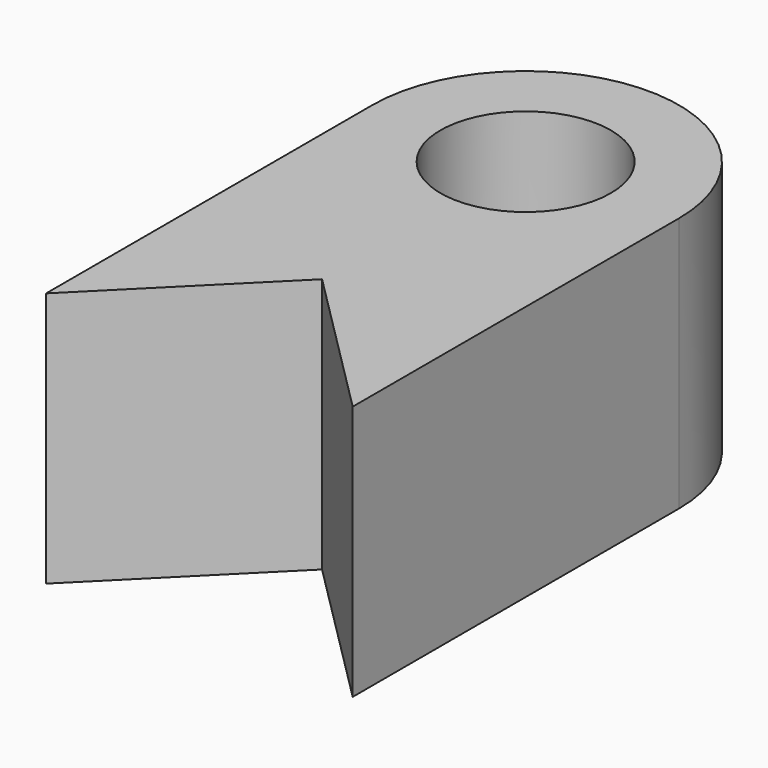
from build123d import *

# Parameters (mm, degrees)
F0_R     = 5
F1_DEPTH = 15


with BuildPart() as f1:
    # F0 (on Top) → F1 (new body)
    with BuildSketch(Plane.XY):
        with BuildLine():
            Line((9, -23.93917), (9, 0))
            ThreePointArc((9, 0), (0, 9), (-9, 0))
            Line((-9, 0), (-9, -23.93917))
            Line((-9, -23.93917), (0, -14.93917))
            Line((0, -14.93917), (9, -23.93917))
        make_face()
        Circle(F0_R, mode=Mode.SUBTRACT)
    extrude(amount=F1_DEPTH)


solid = f1.part
